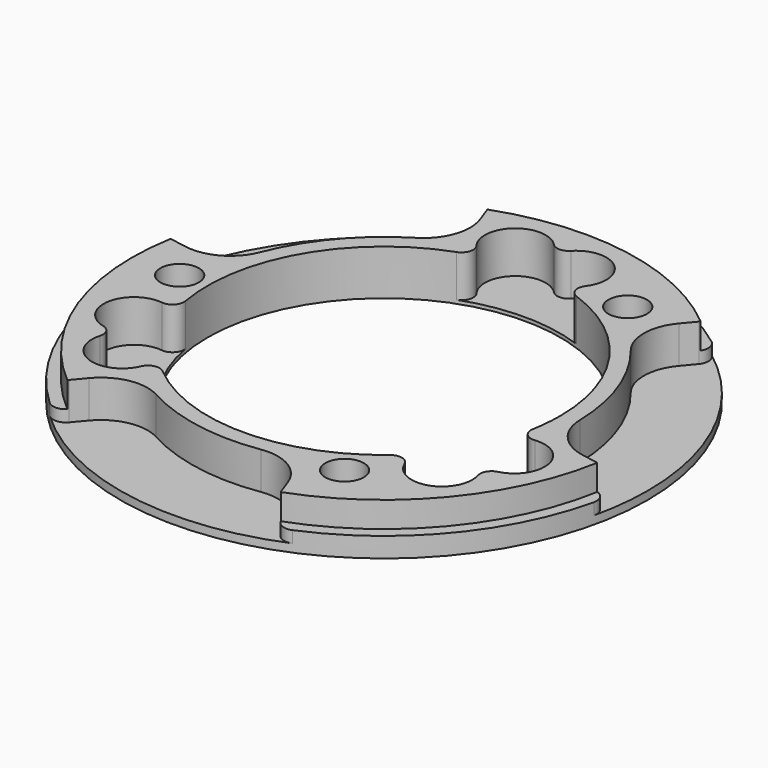
from build123d import *

# Parameters (mm, degrees)
POCKET_DEPTH       = 5.2
POCKET001_DEPTH    = 131.2836295795
POLARPATTERN_COUNT = 3
SKETCH003_R        = 1.65
POCKET002_DEPTH    = 3.601


with BuildPart() as part:
    # Sketch → Revolution (revolve)
    with BuildSketch(Plane.XZ):
        Polygon((15.1, 0), (15.1, 3.9), (21.6, 3.9), (21.6, 1.7), (22.6, 1.7), (22.6, 0), align=None)
    revolve(axis=Axis((0, 0, 0), (0, 0, 1)))

    # Sketch001 → Pocket (cut)
    with BuildSketch(Plane.XY.offset(0.3)):
        with BuildLine():
            ThreePointArc((-15.9712383567, -3.8204989231), (-18.8447644437, -5.9331508585), (-16.9057454793, -8.9265863145))
            ThreePointArc((-16.1835232571, -10.1775118978), (-16.2776050381, -9.3978796505), (-16.9057454793, -8.9265863145))
            ThreePointArc((-16.1835232571, -10.1775118978), (-14.5606415898, -13.3534693073), (-11.2942683009, -11.9212486852))
            ThreePointArc((-9.7295516419, -11.5475462696), (-10.6061902717, -11.3396396422), (-11.2942683009, -11.9212486852))
            ThreePointArc((-9.7295516419, -11.5475462696), (0, -15.1), (9.7295516419, -11.5475462696))
            ThreePointArc((11.2942683009, -11.9212486852), (10.6061902717, -11.3396396422), (9.7295516419, -11.5475462696))
            ThreePointArc((11.2942683009, -11.9212486852), (14.5606415898, -13.3534693073), (16.1835232571, -10.1775118978))
            ThreePointArc((16.9057454793, -8.9265863145), (16.2776050381, -9.3978796505), (16.1835232571, -10.1775118978))
            ThreePointArc((16.9057454793, -8.9265863145), (18.8447644437, -5.9331508585), (15.9712383567, -3.8204989231))
            ThreePointArc((14.8652442418, -2.6522657545), (15.1235111358, -3.5154103916), (15.9712383567, -3.8204989231))
            ThreePointArc((14.8652442418, -2.6522657545), (13.0769835971, 7.55), (5.1356925999, 14.1998120241))
            ThreePointArc((4.6769700558, 15.7417476083), (4.517320864, 14.8550500338), (5.1356925999, 14.1998120241))
            ThreePointArc((4.6769700558, 15.7417476083), (4.2841228539, 19.2866201659), (0.7222222222, 19.1040982123))
            ThreePointArc((-0.7222222222, 19.1040982123), (0, 18.7957593011), (0.7222222222, 19.1040982123))
            ThreePointArc((-0.7222222222, 19.1040982123), (-4.2841228539, 19.2866201659), (-4.6769700558, 15.7417476083))
            ThreePointArc((-5.1356925999, 14.1998120241), (-4.517320864, 14.8550500338), (-4.6769700558, 15.7417476083))
            ThreePointArc((-5.1356925999, 14.1998120241), (-13.0769835972, 7.55), (-14.8652442418, -2.6522657545))
            ThreePointArc((-15.9712383567, -3.8204989231), (-15.1235111358, -3.5154103916), (-14.8652442418, -2.6522657545))
        make_face()
    extrude(amount=POCKET_DEPTH, mode=Mode.SUBTRACT)

    # Sketch002 → Pocket001 (cut, through all)
    with BuildSketch(Plane.XY.offset(0.7)):
        with BuildLine():
            Line((-21.1456411257, 3.728513813), (-19.8005265105, 3.4913338142))
            ThreePointArc((-19.8005265105, 3.4913338142), (-17.143892895, 3.9448230849), (-15.3779467169, 5.9806985187))
            ThreePointArc((-8.5602136605, 14.1057698155), (-12.6397419459, 10.6059852697), (-15.3779467169, 5.9806985187))
            ThreePointArc((-8.5602136605, 14.1057698155), (-6.8619255723, 16.1984130552), (-6.876646489, 18.8934309501))
            Line((-7.3438021199, 20.1769304973), (-6.876646489, 18.8934309501))
            ThreePointArc((-6.6329850074, 21.6047103635), (-7.2948567632, 21.0433924702), (-7.3438021199, 20.1769304973))
            ThreePointArc((-6.6329850074, 21.6047103635), (-17.3126154887, 14.5269867812), (-22.428296266, 2.7805622822))
            ThreePointArc((-21.1456411257, 3.728513813), (-21.9904400194, 3.5298512156), (-22.428296266, 2.7805622822))
        make_face()
    pocket001 = extrude(amount=POCKET001_DEPTH, mode=Mode.SUBTRACT)

    # PolarPattern: Pocket001 ×3 about axis
    polarpattern_axis = Axis((0, 0, 0.7), (0, 0, 1))
    for i in range(1, POLARPATTERN_COUNT):
        add(pocket001.rotate(polarpattern_axis, i * 360 / POLARPATTERN_COUNT), mode=Mode.SUBTRACT)

    # Sketch003 → Pocket002 (cut, through all)
    with BuildSketch(Plane.XY.offset(0.3)):
        with Locations((8.75, 15.1554445662)):
            Circle(SKETCH003_R)
        with Locations((-17.5, 0)):
            Circle(SKETCH003_R)
        with Locations((8.75, -15.1554445662)):
            Circle(SKETCH003_R)
    extrude(amount=POCKET002_DEPTH, mode=Mode.SUBTRACT)


solid = part.part
